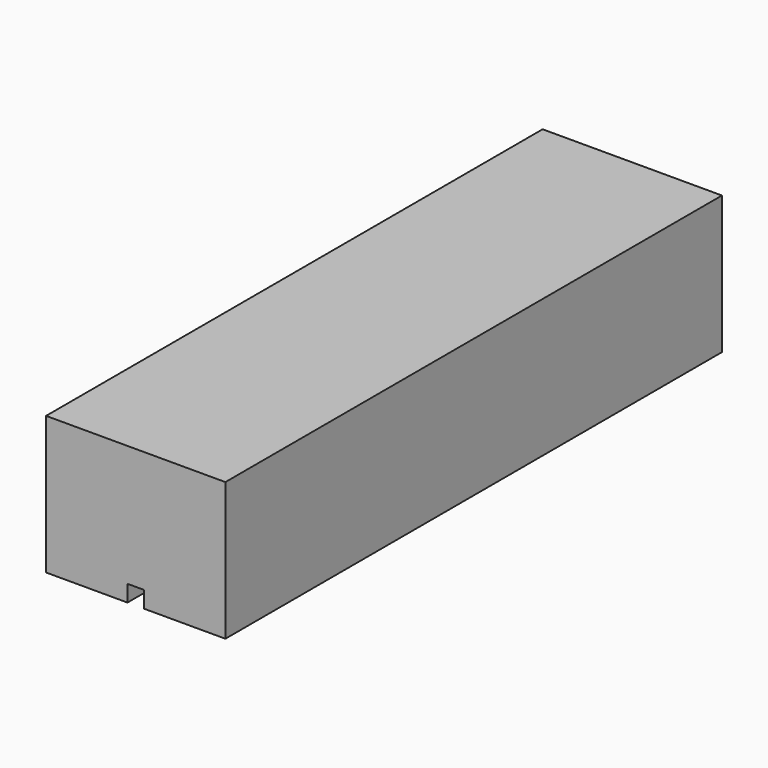
from build123d import *

# Parameters (mm, degrees)
F1_DEPTH = 225
F3_D     = 19
F3_DEPTH = 52
F3_TIP   = 5.7081758808


with BuildPart() as f1:
    # F0 (on Front) → F1 (new body)
    with BuildSketch(Plane.XZ):
        Polygon((32.5, 21), (0, 21), (0, -23), (3, -23), (3, -29), (32.5, -29), align=None)
    extrude(amount=F1_DEPTH)

    # F3
    with Locations(Plane(origin=(0, 0, 0), x_dir=(-1, 0, 0), z_dir=(0, 1, 0))):
        with Locations((0, 0)):
            Hole(F3_D / 2, depth=F3_DEPTH)
            with Locations((0, 0, -(F3_DEPTH + F3_TIP / 2))):  # 118° drill point
                Cone(0, F3_D / 2, F3_TIP, mode=Mode.SUBTRACT)

    # F4: F1 across face


with BuildPart() as f1_1:
    add(f1.part)
    add(f1.part.mirror(Plane(origin=(0, -122.5069848753, -1.1176625039), x_dir=(0, -1, 0), z_dir=(-1, 0, 0))))


solid = f1_1.part
